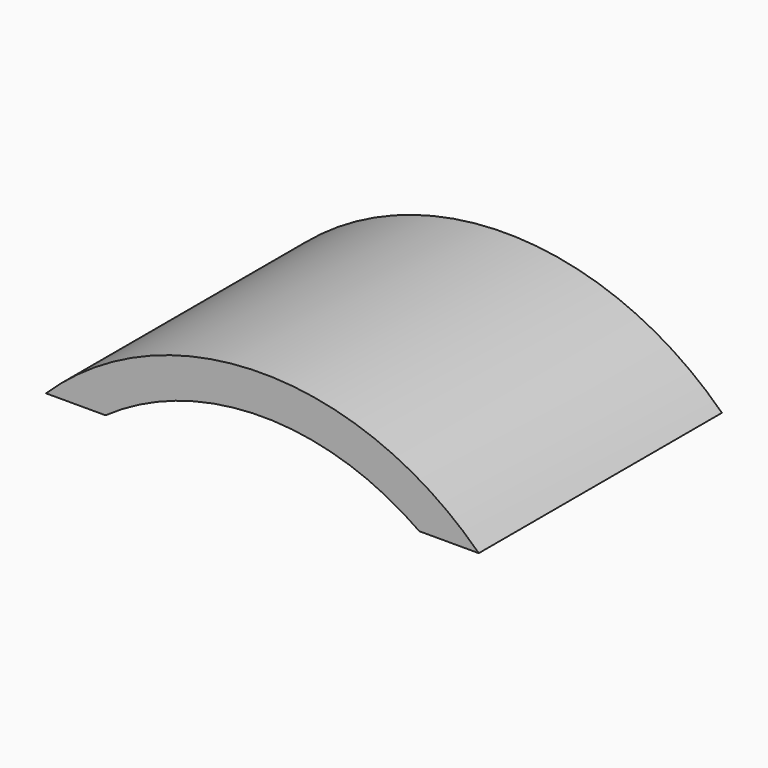
from build123d import *

# Parameters (mm, degrees)
F1_DEPTH = 50


with BuildPart() as f1:
    # F0 (on Front) → F1 (new body)
    with BuildSketch(Plane.XZ):
        with BuildLine():
            ThreePointArc((-46.4942269027, 23.5323533416), (-20.6799472217, 31.739285359), (5.1343324594, 23.5323533416))
            Line((5.1343324594, 23.5323533416), (14.9136617155, 23.5323533416))
            ThreePointArc((14.9136617155, 23.5323533416), (-20.6799472217, 38.0156938095), (-56.2735561588, 23.5323533416))
            Line((-56.2735561588, 23.5323533416), (-46.4942269027, 23.5323533416))
        make_face()
    extrude(amount=-F1_DEPTH)


solid = f1.part
